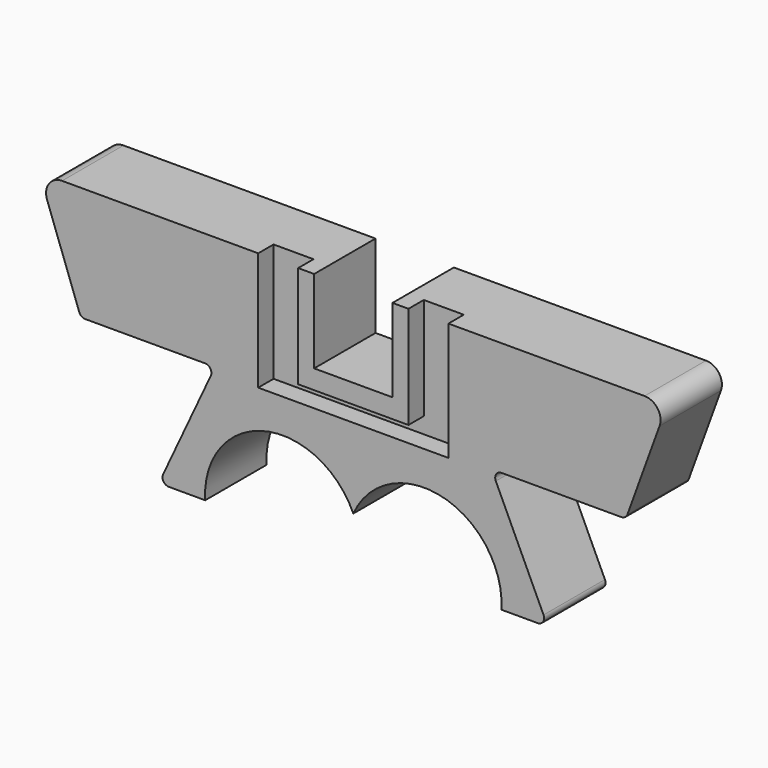
from build123d import *

# Parameters (mm, degrees)
F1_DEPTH = 2.4
F3_R     = 0.5
F4_R     = 0.2
F5_R     = 0.2
F6_R     = 0.2
F8_DEPTH = 0.6


with BuildPart() as f1:
    # F0 (on Front) → F1 (new body)
    with BuildSketch(Plane.XZ):
        with BuildLine():
            Line((1.225, 0), (0, 0))
            Line((0, 0), (0, -3.6))
            ThreePointArc((0, -3.6), (2.79331856, -2.235219763), (4.6334154242, -4.7410723531))
            Line((4.6334154242, -4.7410723531), (6.0834154242, -4.7410723531))
            Line((6.0834154242, -4.7410723531), (4.3253234554, -0.970831959))
            Line((4.3253234554, -0.970831959), (8.5253234554, -0.970831959))
            Line((8.5253234554, -0.970831959), (9.825, 2.6))
            Line((9.825, 2.6), (1.225, 2.6))
            Line((1.225, 2.6), (1.225, 0))
        make_face()
    extrude(amount=F1_DEPTH)

    # F2: F1 across face


with BuildPart() as f1_1:
    add(f1.part)
    add(f1.part.mirror(Plane(origin=(0, -1.2, -1.8), x_dir=(0, -1, 0), z_dir=(-1, 0, 0))))

    # F3
    f3_edges = [f1_1.edges().sort_by_distance(p)[0] for p in [
        (-9.825, -1.2, 2.6),
        (9.825, -1.2, 2.6),
    ]]
    fillet(f3_edges, radius=F3_R)

    # F4
    f4_edges = [f1_1.edges().sort_by_distance(p)[0] for p in [
        (-8.525323, -1.2, -0.970832),
        (8.525323, -1.2, -0.970832),
    ]]
    fillet(f4_edges, radius=F4_R)

    # F5
    f5_edges = [f1_1.edges().sort_by_distance(p)[0] for p in [
        (-6.083415, -1.2, -4.741072),
        (6.083415, -1.2, -4.741072),
    ]]
    fillet(f5_edges, radius=F5_R)

    # F6
    f6_edges = [f1_1.edges().sort_by_distance(p)[0] for p in [
        (-4.325323, -1.2, -0.970832),
        (4.325323, -1.2, -0.970832),
    ]]
    fillet(f6_edges, radius=F6_R)

    # F7 (on face) → F8 (cut)
    with BuildSketch(Plane.XZ.offset(2.4)):
        Polygon((1.725, -0.6), (-1.725, -0.6), (-1.725, 2.6), (-2.975, 2.6), (-2.975, -1.1), (2.975, -1.1), (2.975, 2.6), (1.725, 2.6), align=None)
    extrude(amount=-F8_DEPTH, mode=Mode.SUBTRACT)


solid = f1_1.part
